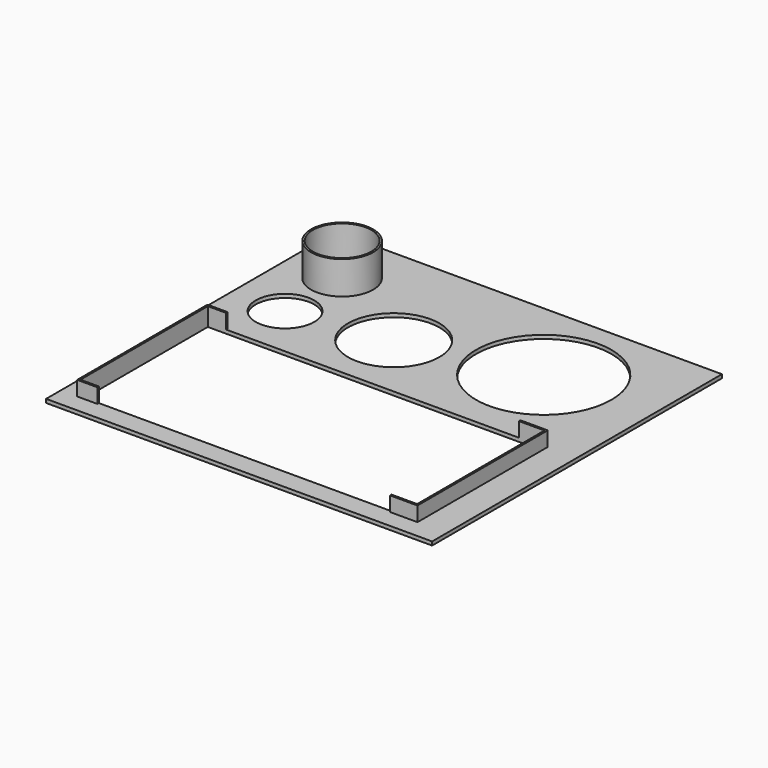
from build123d import *

# Parameters (mm, degrees)
BOX_W             = 211
BOX_H             = 198
BOX_DEPTH         = 2
BOX001_W          = 186
BOX001_H          = 89
BOX001_DEPTH      = 10
BOX002_W          = 184
BOX002_H          = 87
BOX002_DEPTH      = 10
BOX003_W          = 160
BOX003_H          = 89
BOX003_DEPTH      = 10
CYLINDER_R        = 16
CYLINDER_DEPTH    = 2
CYLINDER001_R     = 25
CYLINDER001_DEPTH = 2
CYLINDER002_R     = 17
CYLINDER002_DEPTH = 20
CYLINDER003_R     = 16
CYLINDER003_DEPTH = 20
CYLINDER004_R     = 37
CYLINDER004_DEPTH = 2


with BuildPart() as part:
    # Box → Box (join)
    with BuildSketch(Plane.XY):
        with Locations((105.5, 99)):
            Rectangle(BOX_W, BOX_H)
    extrude(amount=BOX_DEPTH)

    # Box001 → Box001 (join)
    with BuildSketch(Plane(origin=(9, 10, 0), x_dir=(1, 0, 0), z_dir=(0, 0, 1))):
        with Locations((93, 44.5)):
            Rectangle(BOX001_W, BOX001_H)
    extrude(amount=BOX001_DEPTH)

    # Box002 → Box002 (cut)
    with BuildSketch(Plane(origin=(10, 11, 0), x_dir=(1, 0, 0), z_dir=(0, 0, 1))):
        with Locations((92, 43.5)):
            Rectangle(BOX002_W, BOX002_H)
    extrude(amount=BOX002_DEPTH, mode=Mode.SUBTRACT)

    # Box003 → Box003 (cut)
    with BuildSketch(Plane(origin=(20, 10, 2), x_dir=(1, 0, 0), z_dir=(0, 0, 1))):
        with Locations((80, 44.5)):
            Rectangle(BOX003_W, BOX003_H)
    extrude(amount=BOX003_DEPTH, mode=Mode.SUBTRACT)

    # Cylinder → Cylinder (cut)
    with BuildSketch(Plane(origin=(29, 127, 0), x_dir=(1, 0, 0), z_dir=(0, 0, 1))):
        Circle(CYLINDER_R)
    extrude(amount=CYLINDER_DEPTH, mode=Mode.SUBTRACT)

    # Cylinder001 → Cylinder001 (cut)
    with BuildSketch(Plane(origin=(82, 135, 0), x_dir=(1, 0, 0), z_dir=(0, 0, 1))):
        Circle(CYLINDER001_R)
    extrude(amount=CYLINDER001_DEPTH, mode=Mode.SUBTRACT)

    # Cylinder002 → Cylinder002 (join)
    with BuildSketch(Plane(origin=(29, 166, 0), x_dir=(1, 0, 0), z_dir=(0, 0, 1))):
        Circle(CYLINDER002_R)
    extrude(amount=CYLINDER002_DEPTH)

    # Cylinder003 → Cylinder003 (cut)
    with BuildSketch(Plane(origin=(29, 166, 0), x_dir=(1, 0, 0), z_dir=(0, 0, 1))):
        Circle(CYLINDER003_R)
    extrude(amount=CYLINDER003_DEPTH, mode=Mode.SUBTRACT)

    # Cylinder004 → Cylinder004 (cut)
    with BuildSketch(Plane(origin=(152, 150, 0), x_dir=(1, 0, 0), z_dir=(0, 0, 1))):
        Circle(CYLINDER004_R)
    extrude(amount=CYLINDER004_DEPTH, mode=Mode.SUBTRACT)


solid = part.part
